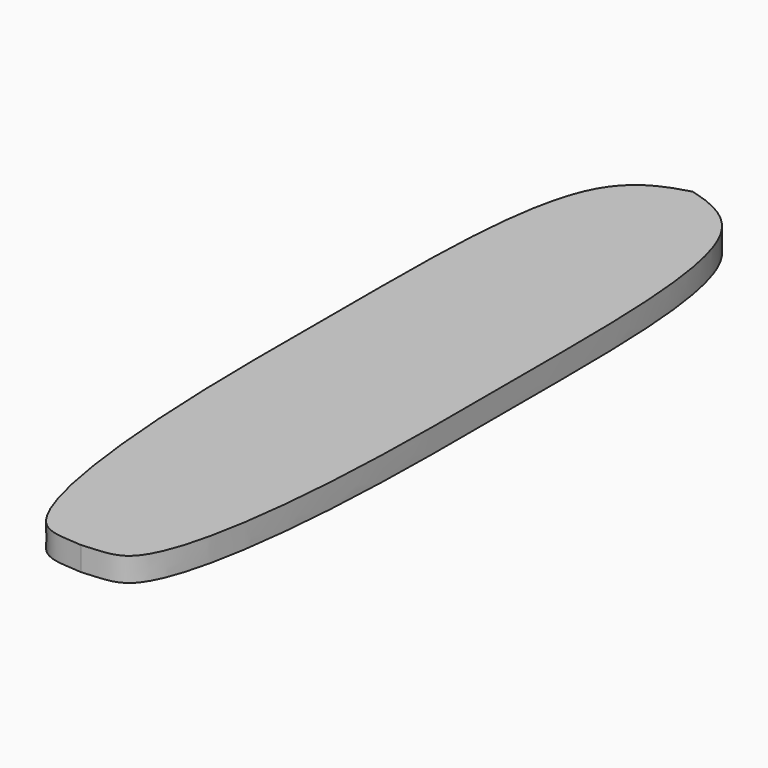
from build123d import *

# Parameters (mm, degrees)
F1_DEPTH = 76.2


with BuildPart() as f1:
    # F0 (on Top) → F1 (new body)
    with BuildSketch(Plane.XY):
        with BuildLine():
            add(Edge.make_bspline(
                [(0, 1219.2), (72.8707380521, 1199.5621951725), (289.8399203557, 1114.6643286049), (282.9571928177, 179.3180044201), (293.8465848779, -618.4505783151), (186.758222297, -1227.8063780003), (59.1680483197, -1213.1061934731), (0, -1219.2)],
                knots=[0, 0, 0, 0, 0.1407036843, 0.4077853565, 0.6846048032, 0.8905314359, 1, 1, 1, 1], degree=3))
            add(Edge.make_bspline(
                [(0, 1219.2), (-72.8707380521, 1199.5621951725), (-289.8399203557, 1114.6643286049), (-282.9571928177, 179.3180044201), (-293.8465848779, -618.4505783151), (-186.758222297, -1227.8063780003), (-59.1680483197, -1213.1061934731), (0, -1219.2)],
                knots=[0, 0, 0, 0, 0.1407036843, 0.4077853565, 0.6846048032, 0.8905314359, 1, 1, 1, 1], degree=3))
        make_face()
    extrude(amount=F1_DEPTH)


solid = f1.part
